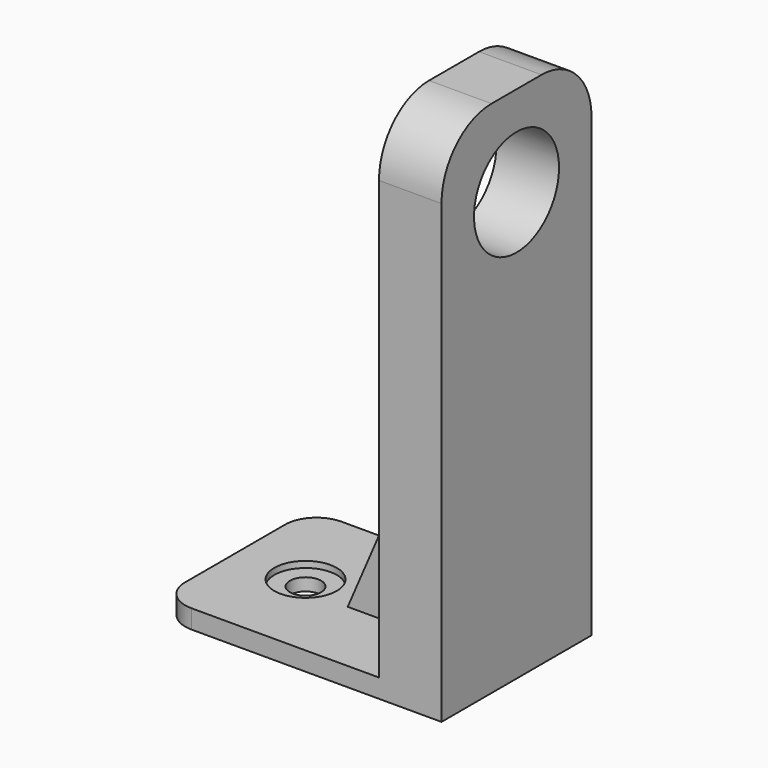
from build123d import *

# Parameters (mm, degrees)
F0_W      = 45
F0_H      = 30
F1_DEPTH  = 3
F2_R      = 5
F3_DEPTH  = 1
F4_R      = 2.5
F5_DEPTH  = 2
F6_W      = 10
F6_H      = 30
F7_DEPTH  = 80
F9_DEPTH  = 2.5
F10_R     = 8.5
F11_DEPTH = 10
F12_R     = 10
F13_R     = 10
F14_R     = 5
F15_R     = 5


with BuildPart() as f1:
    # F0 (on Top) → F1 (new body)
    with BuildSketch(Plane.XY):
        Rectangle(F0_W, F0_H)
    extrude(amount=F1_DEPTH)

    # F2 (on face) → F3 (cut)
    with BuildSketch(Plane.XY.offset(3)):
        with Locations((-11.25, 0)):
            Circle(F2_R)
    extrude(amount=-F3_DEPTH, mode=Mode.SUBTRACT)

    # F4 (on face) → F5 (cut, through all)
    with BuildSketch(Plane.XY.offset(2)):
        with Locations((-11.25, 0)):
            Circle(F4_R)
    extrude(amount=-F5_DEPTH, mode=Mode.SUBTRACT)

    # F6 (on face) → F7 (join)
    with BuildSketch(Plane.XY.offset(3)):
        with Locations((17.5, 0)):
            Rectangle(F6_W, F6_H)
    extrude(amount=F7_DEPTH)

    # F8 (on Front) → F9 (join, symmetric)
    with BuildSketch(Plane.XZ):
        Polygon((12.5, 38), (-2.5, 3), (12.5, 3), align=None)
    extrude(amount=F9_DEPTH, both=True)

    # F10 (on face) → F11 (cut, through all)
    with BuildSketch(Plane.YZ.offset(22.5)):
        with Locations((0, 68.5)):
            Circle(F10_R)
    extrude(amount=-F11_DEPTH, mode=Mode.SUBTRACT)

    # F12
    f12_edges = [f1.edges().sort_by_distance(p)[0] for p in [
        (17.5, 15, 83),
    ]]
    fillet(f12_edges, radius=F12_R)

    # F13
    f13_edges = [f1.edges().sort_by_distance(p)[0] for p in [
        (17.5, -15, 83),
    ]]
    fillet(f13_edges, radius=F13_R)

    # F14
    f14_edges = [f1.edges().sort_by_distance(p)[0] for p in [
        (-22.5, 15, 1.5),
    ]]
    fillet(f14_edges, radius=F14_R)

    # F15
    f15_edges = [f1.edges().sort_by_distance(p)[0] for p in [
        (-22.5, -15, 1.5),
    ]]
    fillet(f15_edges, radius=F15_R)


solid = f1.part
